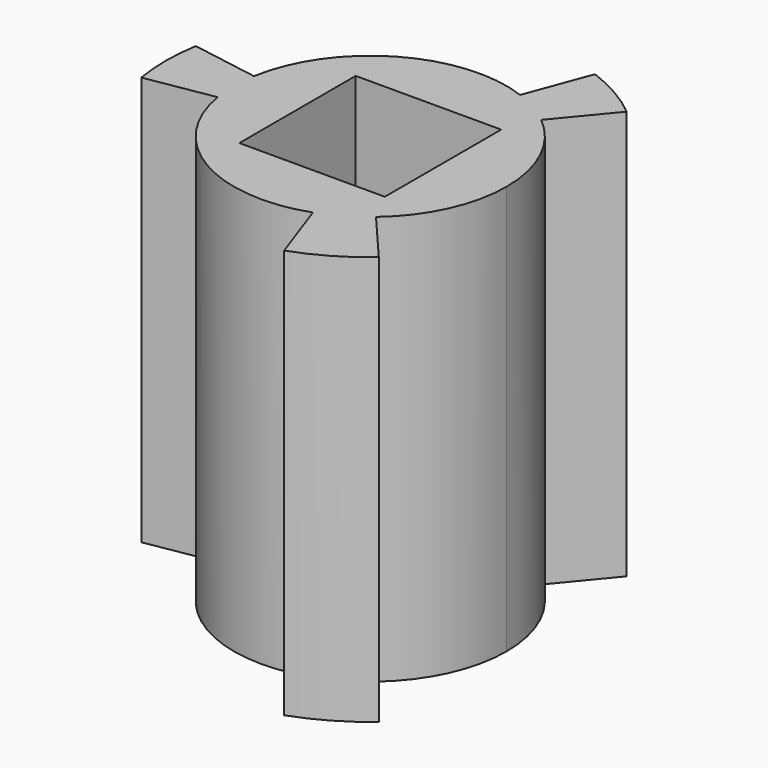
from build123d import *

# Parameters (mm, degrees)
F1_DEPTH = 18
F2_W     = 6.4
F2_H     = 6.4
F3_DEPTH = 10


with BuildPart() as f1:
    # F0 (on Top) → F1 (new body)
    with BuildSketch(Plane.XY):
        with BuildLine():
            Line((-5.91608, 1), (-8.87412, 1.5))
            ThreePointArc((-8.87412, 1.5), (-9, 0), (-8.87412, -1.5))
            Line((-8.87412, -1.5), (-5.91608, -1))
            ThreePointArc((-5.91608, -1), (-6, 0), (-5.91608, 1))
        make_face()
        with BuildLine():
            ThreePointArc((6, 0), (5.428079, 2.556552), (3.821346, 4.625723))
            ThreePointArc((3.821346, 4.625723), (3, 5.196152), (2.09532, 5.622245))
            ThreePointArc((2.09532, 5.622245), (-2.998472, 5.197034), (-5.91608, 1))
            ThreePointArc((-5.91608, 1), (-6, 0), (-5.91608, -1))
            ThreePointArc((-5.91608, -1), (-3.042284, -5.171509), (2, -5.656854))
            ThreePointArc((2, -5.656854), (3, -5.196152), (3.898979, -4.560478))
            ThreePointArc((3.898979, -4.560478), (5.44949, -2.51059), (6, 0))
        make_face()
        with BuildLine():
            Line((3.821346, 4.625723), (5.73202, 6.938584))
            ThreePointArc((5.73202, 6.938584), (4.5, 7.794229), (3.14298, 8.433367))
            Line((3.14298, 8.433367), (2.09532, 5.622245))
            ThreePointArc((2.09532, 5.622245), (3, 5.196152), (3.821346, 4.625723))
        make_face()
        with BuildLine():
            ThreePointArc((3, -8.485281), (4.5, -7.794229), (5.848469, -6.840717))
            Line((5.848469, -6.840717), (3.898979, -4.560478))
            ThreePointArc((3.898979, -4.560478), (3, -5.196152), (2, -5.656854))
            Line((2, -5.656854), (3, -8.485281))
        make_face()
    extrude(amount=F1_DEPTH)

    # F2 (on face) → F3 (cut)
    with BuildSketch(Plane.XY.offset(18)):
        Rectangle(F2_W, F2_H)
    extrude(amount=-F3_DEPTH, mode=Mode.SUBTRACT)


solid = f1.part
